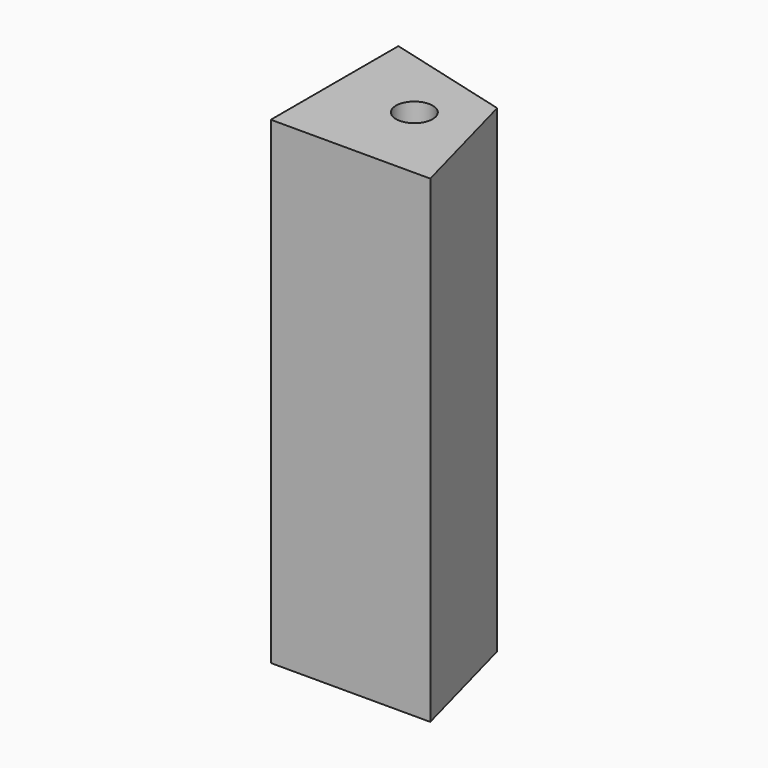
from build123d import *

# Parameters (mm, degrees)
F0_R     = 1.4605
F1_DEPTH = 19.05


with BuildPart() as f1:
    # F0 (on Top) → F1 (new body, symmetric)
    with BuildSketch(Plane.XY):
        Polygon((-6.35, -6.35), (6.35, -6.35), (3.666174, 3.666174), (-6.35, 6.35), align=None)
        Circle(F0_R, mode=Mode.SUBTRACT)
    extrude(amount=F1_DEPTH, both=True)


solid = f1.part
